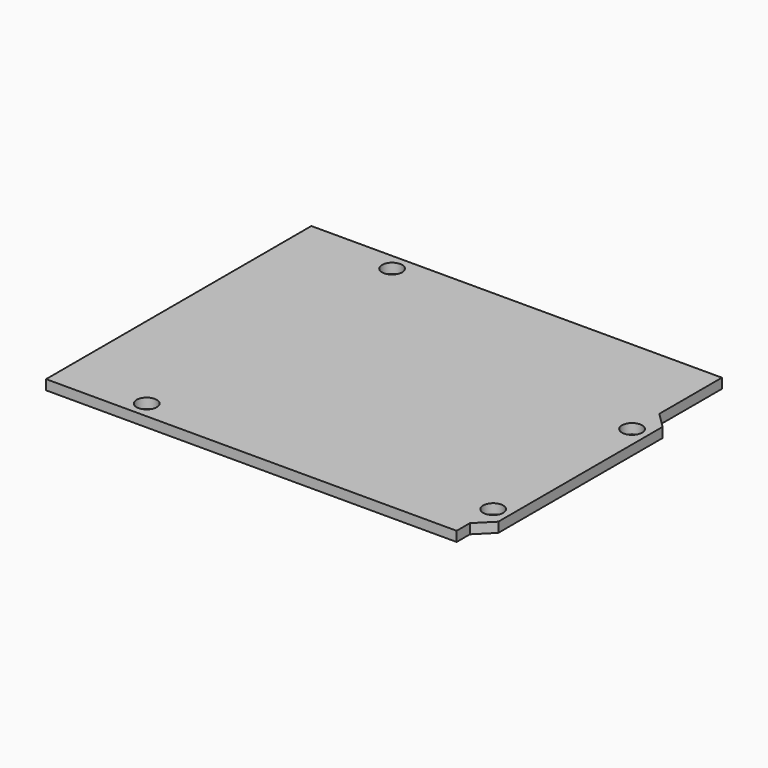
from build123d import *

# Parameters (mm, degrees)
F1_DEPTH = 1.588
F2_R     = 1.6195
F3_DEPTH = 1.589


with BuildPart() as f1:
    # F0 (on Top) → F1 (new body)
    with BuildSketch(Plane.XY):
        Polygon((33.02, 26.67), (-33.02, 26.67), (-33.02, -26.67), (33.02, -26.67), (33.02, -24.003), (35.56, -21.463), (35.56, 11.557), (33.02, 14.097), align=None)
    extrude(amount=F1_DEPTH)

    # F2 (on face) → F3 (cut, through all)
    with BuildSketch(Plane.XY.offset(1.588)):
        with Locations((-17.863, 23.959)):
            Circle(F2_R)
        with Locations((-19.006, -23.959)):
            Circle(F2_R)
        with Locations((32.925, 8.719)):
            Circle(F2_R)
        with Locations((32.925, -19.209)):
            Circle(F2_R)
    extrude(amount=-F3_DEPTH, mode=Mode.SUBTRACT)


solid = f1.part
